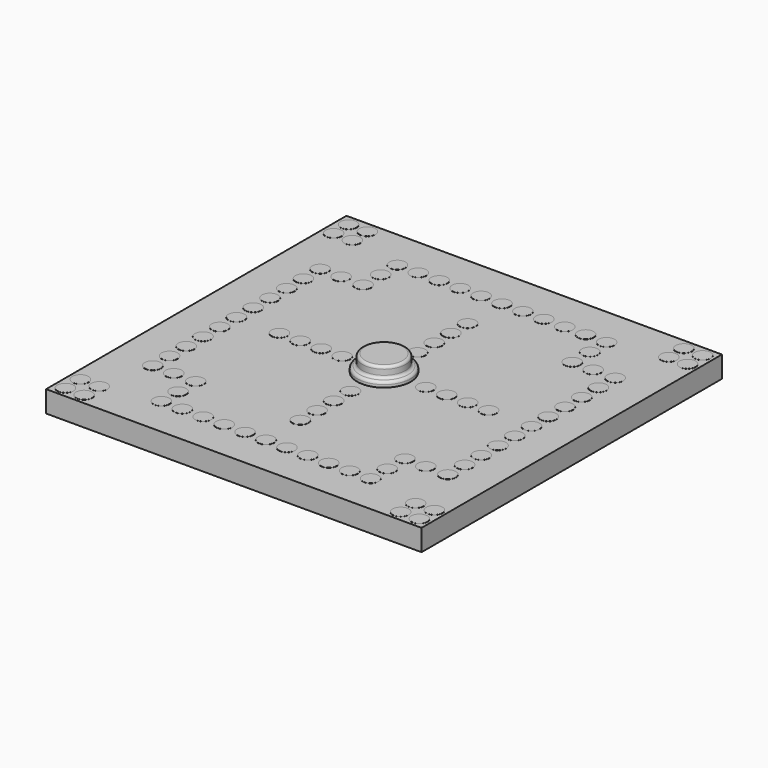
from build123d import *

# Parameters (mm, degrees)
F0_W     = 88.9
F0_H     = 88.9
F1_DEPTH = 5.08
F2_R     = 1.905
F3_DEPTH = 0.0254
F4_R     = 1.905
F5_DEPTH = 0.0254
F6_R     = 6.35
F7_DEPTH = 1.27
F8_R     = 5.08331
F9_DEPTH = 2.54
F10_R    = 0.635
F11_R    = 0.635


with BuildPart() as f1:
    # F0 (on Top) → F1 (new body)
    with BuildSketch(Plane.XY):
        Rectangle(F0_W, F0_H)
    extrude(amount=F1_DEPTH)

    # F2 (on face) → F3 (join)
    with BuildSketch(Plane.XY.offset(5.08)):
        with Locations((-34.925, -24.765)):
            Circle(F2_R)
        with Locations((-29.972, -24.765)):
            Circle(F2_R)
        with Locations((-24.765, -24.765)):
            Circle(F2_R)
        with Locations((-24.765, -29.972)):
            Circle(F2_R)
        with Locations((-24.765, -34.925)):
            Circle(F2_R)
        with Locations((-19.812, -34.925)):
            Circle(F2_R)
        with Locations((-14.859, -34.925)):
            Circle(F2_R)
        with Locations((-9.906, -34.925)):
            Circle(F2_R)
        with Locations((-4.953, -34.925)):
            Circle(F2_R)
        with Locations((0, -34.925)):
            Circle(F2_R)
        with Locations((4.953, -34.925)):
            Circle(F2_R)
        with Locations((9.906, -34.925)):
            Circle(F2_R)
        with Locations((14.859, -34.925)):
            Circle(F2_R)
        with Locations((19.812, -34.925)):
            Circle(F2_R)
        with Locations((24.765, -34.925)):
            Circle(F2_R)
        with Locations((24.765, -29.972)):
            Circle(F2_R)
        with Locations((24.765, -24.765)):
            Circle(F2_R)
        with Locations((29.718, -24.765)):
            Circle(F2_R)
        with Locations((34.925, -24.765)):
            Circle(F2_R)
        with Locations((34.925, -19.812)):
            Circle(F2_R)
        with Locations((34.925, -14.859)):
            Circle(F2_R)
        with Locations((34.925, -9.906)):
            Circle(F2_R)
        with Locations((34.925, -4.953)):
            Circle(F2_R)
        with Locations((34.925, 0)):
            Circle(F2_R)
        with Locations((34.925, 4.953)):
            Circle(F2_R)
        with Locations((34.925, 9.906)):
            Circle(F2_R)
        with Locations((34.925, 14.859)):
            Circle(F2_R)
        with Locations((34.925, 19.812)):
            Circle(F2_R)
        with Locations((34.925, 24.765)):
            Circle(F2_R)
        with Locations((29.718, 24.765)):
            Circle(F2_R)
        with Locations((24.765, 24.765)):
            Circle(F2_R)
        with Locations((24.765, 29.972)):
            Circle(F2_R)
        with Locations((24.765, 34.925)):
            Circle(F2_R)
        with Locations((19.812, 34.925)):
            Circle(F2_R)
        with Locations((14.859, 34.925)):
            Circle(F2_R)
        with Locations((9.906, 34.925)):
            Circle(F2_R)
        with Locations((4.953, 34.925)):
            Circle(F2_R)
        with Locations((0, 34.925)):
            Circle(F2_R)
        with Locations((-4.953, 34.925)):
            Circle(F2_R)
        with Locations((-14.859, 34.925)):
            Circle(F2_R)
        with Locations((-19.812, 34.925)):
            Circle(F2_R)
        with Locations((-9.906, 34.925)):
            Circle(F2_R)
        with Locations((-24.765, 34.925)):
            Circle(F2_R)
        with Locations((-24.765, 29.972)):
            Circle(F2_R)
        with Locations((-24.765, 24.765)):
            Circle(F2_R)
        with Locations((-29.972, 24.765)):
            Circle(F2_R)
        with Locations((-34.925, 24.765)):
            Circle(F2_R)
        with Locations((-34.925, 19.812)):
            Circle(F2_R)
        with Locations((-34.925, 14.859)):
            Circle(F2_R)
        with Locations((-34.925, 9.906)):
            Circle(F2_R)
        with Locations((-34.925, 4.953)):
            Circle(F2_R)
        with Locations((-34.925, 0)):
            Circle(F2_R)
        with Locations((-34.925, -4.953)):
            Circle(F2_R)
        with Locations((-34.925, -9.906)):
            Circle(F2_R)
        with Locations((-34.925, -14.859)):
            Circle(F2_R)
        with Locations((-34.925, -19.812)):
            Circle(F2_R)
        with Locations((-24.765, 0)):
            Circle(F2_R)
        with Locations((-19.812, 0)):
            Circle(F2_R)
        with Locations((-14.859, 0)):
            Circle(F2_R)
        with Locations((-9.906, 0)):
            Circle(F2_R)
        with Locations((9.906, 0)):
            Circle(F2_R)
        with Locations((14.859, 0)):
            Circle(F2_R)
        with Locations((19.812, 0)):
            Circle(F2_R)
        with Locations((24.765, 0)):
            Circle(F2_R)
        with Locations((0, 9.906)):
            Circle(F2_R)
        with Locations((0, 14.859)):
            Circle(F2_R)
        with Locations((0, 19.812)):
            Circle(F2_R)
        with Locations((0, 24.765)):
            Circle(F2_R)
        with Locations((0, -9.906)):
            Circle(F2_R)
        with Locations((0, -14.859)):
            Circle(F2_R)
        with Locations((0, -19.812)):
            Circle(F2_R)
        with Locations((0, -24.765)):
            Circle(F2_R)
    extrude(amount=F3_DEPTH)

    # F4 (on face) → F5 (join)
    with BuildSketch(Plane.XY.offset(5.08)):
        with Locations((-41.91, 41.91)):
            Circle(F4_R)
        with Locations((-37.465, 41.91)):
            Circle(F4_R)
        with Locations((-37.465, 37.465)):
            Circle(F4_R)
        with Locations((-41.91, 37.465)):
            Circle(F4_R)
        with Locations((37.465, 41.91)):
            Circle(F4_R)
        with Locations((41.91, 41.91)):
            Circle(F4_R)
        with Locations((41.91, 37.465)):
            Circle(F4_R)
        with Locations((37.465, 37.465)):
            Circle(F4_R)
        with Locations((37.465, -37.465)):
            Circle(F4_R)
        with Locations((41.91, -37.465)):
            Circle(F4_R)
        with Locations((41.91, -41.91)):
            Circle(F4_R)
        with Locations((37.465, -41.91)):
            Circle(F4_R)
        with Locations((-37.465, -41.91)):
            Circle(F4_R)
        with Locations((-37.465, -37.465)):
            Circle(F4_R)
        with Locations((-41.91, -37.465)):
            Circle(F4_R)
        with Locations((-41.91, -41.91)):
            Circle(F4_R)
    extrude(amount=F5_DEPTH)

    # F6 (on face) → F7 (join)
    with BuildSketch(Plane.XY.offset(5.08)):
        Circle(F6_R)
    extrude(amount=F7_DEPTH)

    # F8 (on face) → F9 (join)
    with BuildSketch(Plane.XY.offset(6.35)):
        Circle(F8_R)
    extrude(amount=F9_DEPTH)

    # F10
    f10_edges = [f1.edges().sort_by_distance(p)[0] for p in [
        (-5.08331, 0, 8.89),
        (-5.08331, 0, 6.35),
    ]]
    fillet(f10_edges, radius=F10_R)

    # F11
    f11_edges = [f1.edges().sort_by_distance(p)[0] for p in [
        (-6.35, 0, 6.35),
    ]]
    fillet(f11_edges, radius=F11_R)


solid = f1.part
